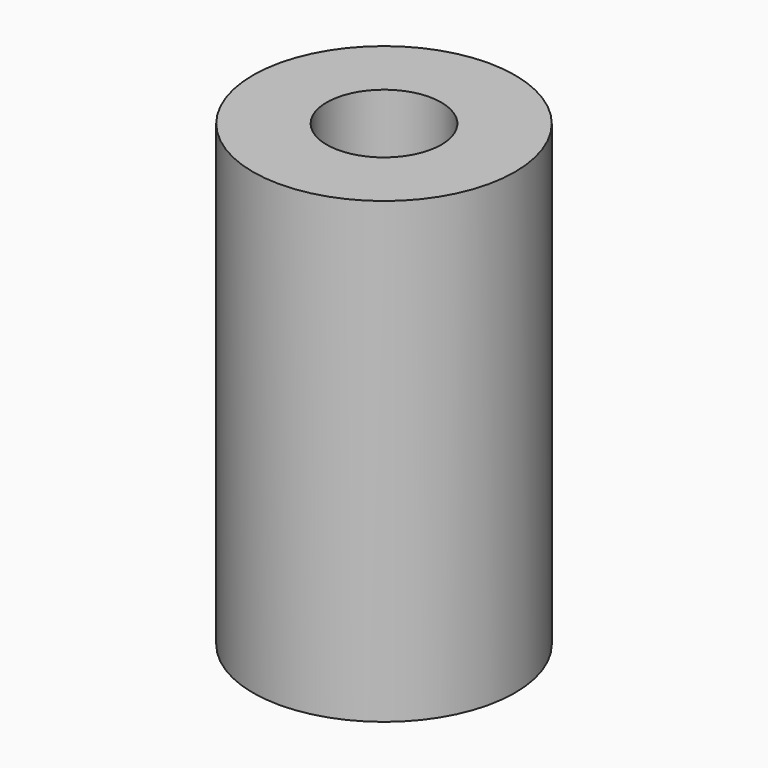
from build123d import *

# Parameters (mm, degrees)
F0_R     = 4
F0_R_2   = 1.75
F1_DEPTH = 14


with BuildPart() as f1:
    # F0 (on Top) → F1 (new body)
    with BuildSketch(Plane.XY):
        Circle(F0_R)
        Circle(F0_R_2, mode=Mode.SUBTRACT)
        Circle(F0_R)
        Circle(F0_R_2, mode=Mode.SUBTRACT)
    extrude(amount=F1_DEPTH)


solid = f1.part
